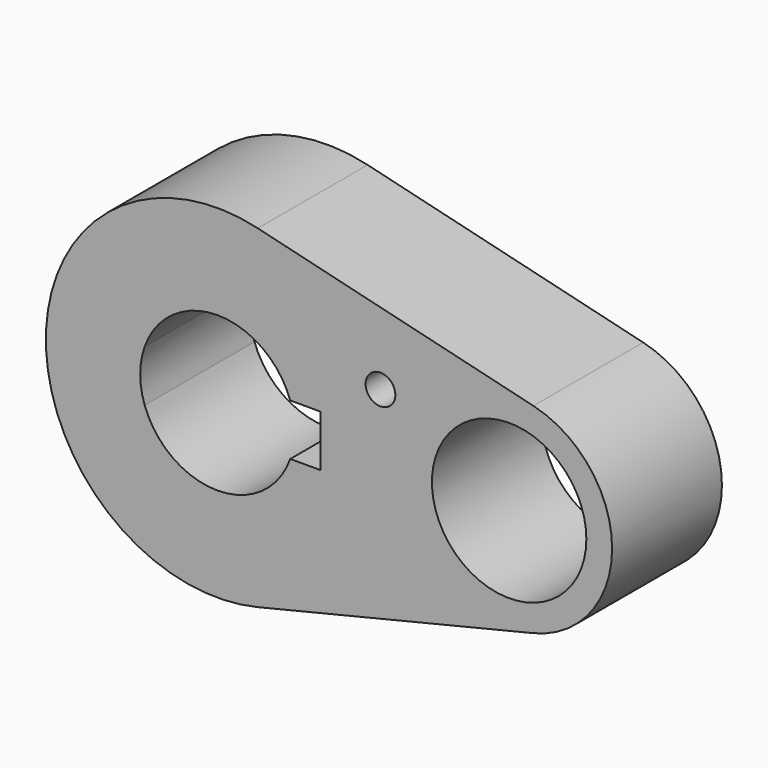
from build123d import *

# Parameters (mm, degrees)
F0_R     = 14.2875
F1_DEPTH = 25.4
F3_D     = 5.5


with BuildPart() as f1:
    # F0 (on Front) → F1 (new body)
    with BuildSketch(Plane.XZ):
        with BuildLine():
            ThreePointArc((7.4705882353, -30.8585938017), (24.9524916238, -19.6325154212), (31.75, 0))
            ThreePointArc((31.75, 0), (24.9524916238, 19.6325154212), (7.4705882353, 30.8585938017))
            ThreePointArc((7.4705882353, 30.8585938017), (-31.75, 0), (7.4705882353, -30.8585938017))
        make_face()
        with BuildLine():
            ThreePointArc((-13.4703841816, 4.7625), (0, 14.2875), (13.4703841816, 4.7625))
            Line((13.4703841816, 4.7625), (19.05, 4.7625))
            Line((19.05, 4.7625), (19.05, -4.7625))
            Line((19.05, -4.7625), (13.4703841816, -4.7625))
            ThreePointArc((13.4703841816, -4.7625), (0, -14.2875), (-13.4703841816, -4.7625))
            Line((-13.4703841816, -4.7625), (-19.05, -4.7625))
            Line((-19.05, -4.7625), (-19.05, 4.7625))
            Line((-19.05, 4.7625), (-13.4703841816, 4.7625))
        make_face(mode=Mode.SUBTRACT)
        with BuildLine():
            ThreePointArc((-13.4703841816, -4.7625), (-14.2875, 0), (-13.4703841816, 4.7625))
            Line((-13.4703841816, 4.7625), (-19.05, 4.7625))
            Line((-19.05, 4.7625), (-19.05, -4.7625))
            Line((-19.05, -4.7625), (-13.4703841816, -4.7625))
        make_face()
        with BuildLine():
            ThreePointArc((7.4705882353, 30.8585938017), (24.9524916238, 19.6325154212), (31.75, 0))
            ThreePointArc((31.75, 0), (24.9524916238, -19.6325154212), (7.4705882353, -30.8585938017))
            Line((7.4705882353, -30.8585938017), (58.4573529412, -18.515156281))
            ThreePointArc((58.4573529412, -18.515156281), (34.925, 0), (58.4573529412, 18.515156281))
            Line((58.4573529412, 18.515156281), (7.4705882353, 30.8585938017))
        make_face()
        with BuildLine():
            ThreePointArc((73.025, 0), (68.9464949743, 11.7795092527), (58.4573529412, 18.515156281))
            ThreePointArc((58.4573529412, 18.515156281), (34.925, 0), (58.4573529412, -18.515156281))
            ThreePointArc((58.4573529412, -18.515156281), (68.9464949743, -11.7795092527), (73.025, 0))
        make_face()
        with Locations((53.975, 0)):
            Circle(F0_R, mode=Mode.SUBTRACT)
    extrude(amount=F1_DEPTH)

    # F3 (through all)
    with Locations(Plane.XZ.offset(25.4)):
        with Locations((30.1617980003, 11.9795044884)):
            Hole(F3_D / 2)


solid = f1.part
